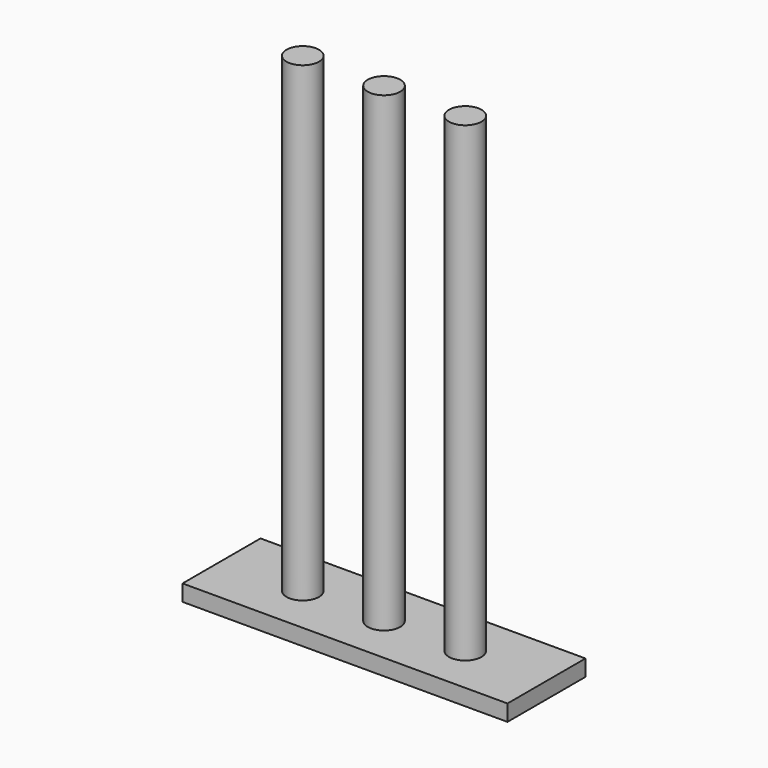
from build123d import *

# Parameters (mm, degrees)
F0_W     = 100
F0_H     = 30
F0_R     = 5
F1_DEPTH = 5
F2_DEPTH = 150


with BuildPart() as f1:
    # F0 (on Top) → F1 (new body)
    with BuildSketch(Plane.XY):
        Rectangle(F0_W, F0_H)
        with Locations((-25, 0)):
            Circle(F0_R, mode=Mode.SUBTRACT)
        Circle(F0_R, mode=Mode.SUBTRACT)
        with Locations((25, 0)):
            Circle(F0_R, mode=Mode.SUBTRACT)
        with Locations((-25, 0)):
            Circle(F0_R)
        Circle(F0_R)
        with Locations((25, 0)):
            Circle(F0_R)
    extrude(amount=F1_DEPTH)


with BuildPart() as f2:
    # F0 (on Top) → F2 (new body)
    with BuildSketch(Plane.XY):
        with Locations((-25, 0)):
            Circle(F0_R)
        Circle(F0_R)
        with Locations((25, 0)):
            Circle(F0_R)
    extrude(amount=F2_DEPTH)


solid = Compound([f1.part, f2.part])
